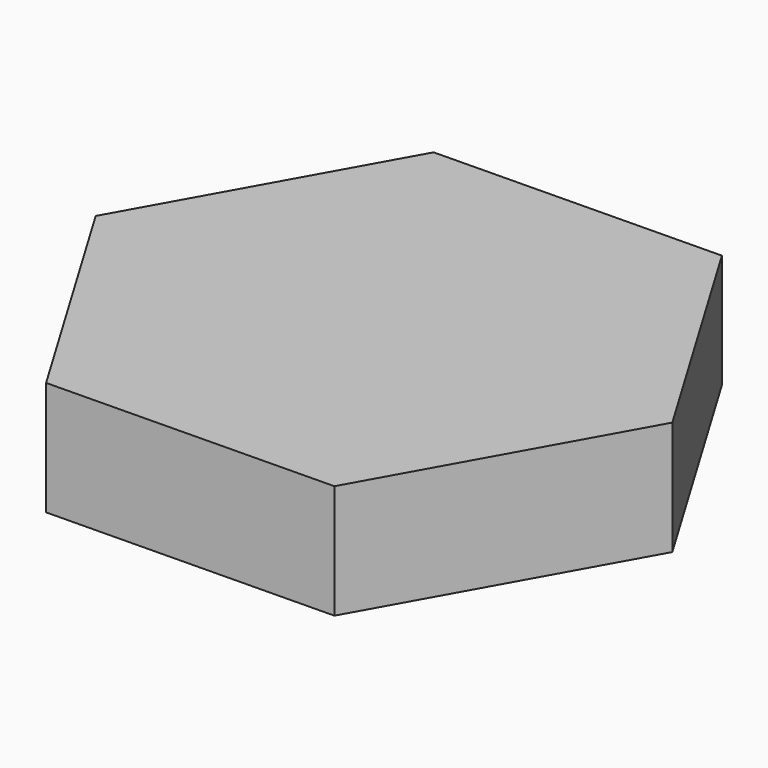
from build123d import *

# Parameters (mm, degrees)
F1_DEPTH = 10


with BuildPart() as f1:
    # F0 (on Top) → F1 (new body)
    with BuildSketch(Plane.XY):
        Polygon((24.997267, 0.369631), (12.178524, 21.833084), (-12.818743, 21.463453), (-24.997267, -0.369631), (-12.178524, -21.833084), (12.818743, -21.463453), align=None)
        Polygon((24.997267, 0.369631), (12.178524, 21.833084), (-12.818743, 21.463453), (-24.997267, -0.369631), (-12.178524, -21.833084), (12.818743, -21.463453), align=None)
    extrude(amount=-F1_DEPTH)


solid = f1.part
